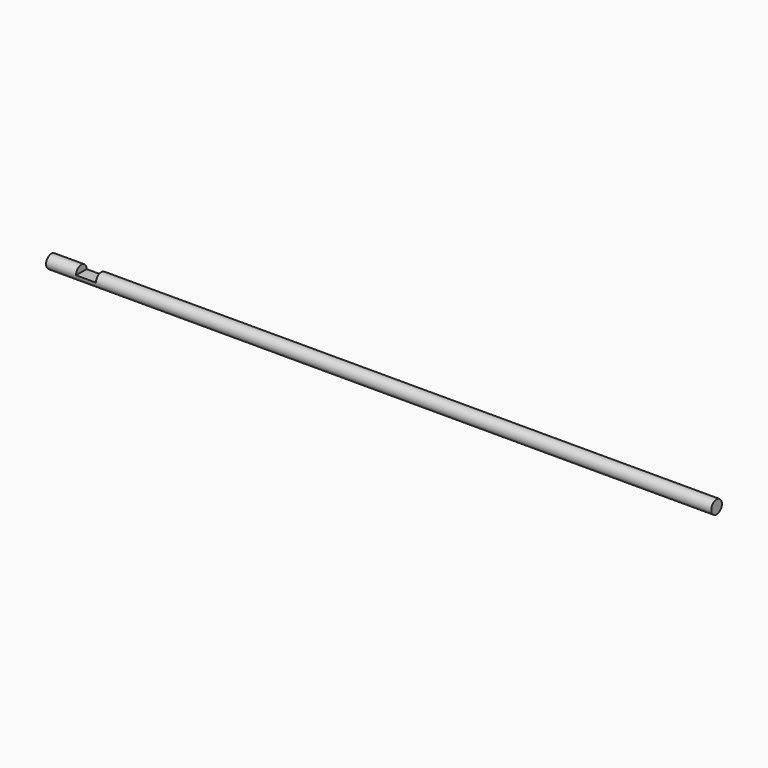
from build123d import *

# Parameters (mm, degrees)
F0_W     = 50
F0_H     = 0.5
F2_W     = 1.5
F2_H     = 1
F3_DEPTH = 12.5


with BuildPart() as f1:
    # F0 (on Front) → F1 (revolve)
    with BuildSketch(Plane.XZ):
        with Locations((25, 0.25)):
            Rectangle(F0_W, F0_H)
    revolve(axis=Axis((25, 0, 0), (1, 0, 0)))

    # F2 (on Front) → F3 (cut, symmetric)
    with BuildSketch(Plane.XZ):
        with Locations((3, 0.5)):
            Rectangle(F2_W, F2_H)
    extrude(amount=F3_DEPTH, both=True, mode=Mode.SUBTRACT)


solid = f1.part
